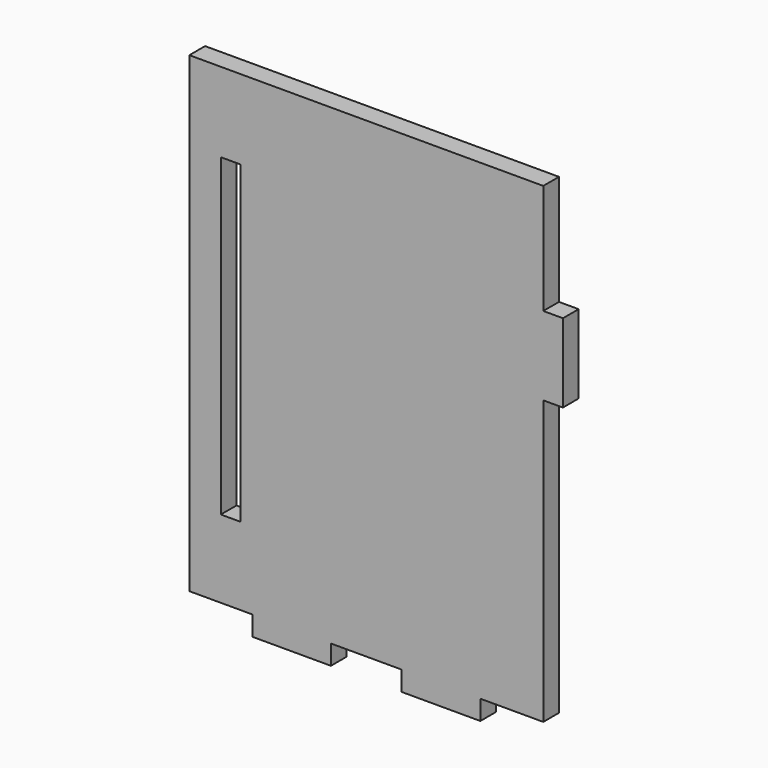
from build123d import *

# Parameters (mm, degrees)
F0_W     = 3.175
F0_H     = 50.8
F0_W_2   = 12.7
F0_H_2   = 3.175
F0_H_3   = 12.7
F1_DEPTH = 3.175


with BuildPart() as f1:
    # F0 (on Front) → F1 (new body)
    with BuildSketch(Plane.XZ):
        Polygon((27.454122, 30.48), (-29.695878, 30.48), (-29.695878, -45.72), (-19.535878, -45.72), (-6.835878, -45.72), (4.594122, -45.72), (17.294122, -45.72), (27.454122, -45.72), (27.454122, 0), (27.454122, 12.7), align=None)
        with Locations((-23.028378, -7.76909)):
            Rectangle(F0_W, F0_H, mode=Mode.SUBTRACT)
        with Locations((-13.185878, -47.3075)):
            Rectangle(F0_W_2, F0_H_2)
        with Locations((10.944122, -47.3075)):
            Rectangle(F0_W_2, F0_H_2)
        with Locations((29.041622, 6.35)):
            Rectangle(F0_W, F0_H_3)
    extrude(amount=F1_DEPTH)


solid = f1.part
